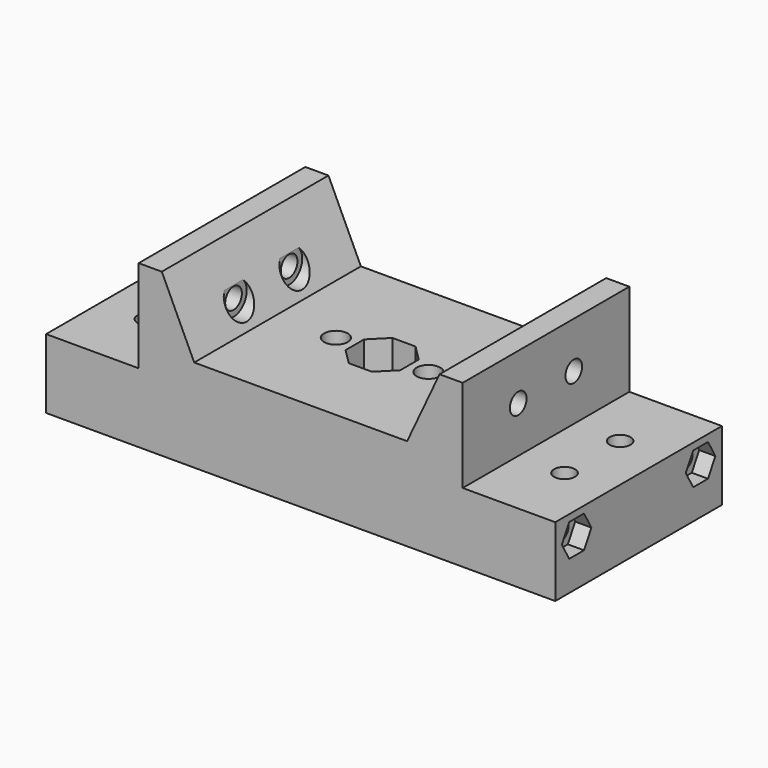
from build123d import *

# Parameters (mm, degrees)
F0_W      = 110
F0_H      = 45
F1_DEPTH  = 15
F2_W      = 12
F2_H      = 45
F3_DEPTH  = 20
F4_R      = 2.25
F5_DEPTH  = 110.001
F6_R      = 2.25
F7_DEPTH  = 15.001
F8_R      = 2.25
F9_DEPTH  = 15.001
F10_R     = 3.55
F11_DEPTH = 3.5
F12_R     = 3.55
F13_DEPTH = 3.5
F3_FACE_W = 46
F3_FACE_H = 45
F14_DEPTH = 5
F16_DEPTH = 45.001
F17_R     = 2.55
F18_DEPTH = 35.001
F20_DEPTH = 3.3
F21_R     = 2.25
F22_DEPTH = 10
F24_DEPTH = 3.5
F25_R     = 2.25
F26_DEPTH = 10
F28_DEPTH = 3.5


with BuildPart() as f1:
    # F0 (on Top) → F1 (new body)
    with BuildSketch(Plane.XY):
        with Locations((55, 22.5)):
            Rectangle(F0_W, F0_H)
    extrude(amount=F1_DEPTH)

    # F2 (on face) → F3 (join)
    with BuildSketch(Plane.XY.offset(15)):
        with Locations((26, 22.5)):
            Rectangle(F2_W, F2_H)
        with Locations((84, 22.5)):
            Rectangle(F2_W, F2_H)
    extrude(amount=F3_DEPTH)

    # F4 (on Right) → F5 (cut, through all)
    with BuildSketch(Plane.YZ):
        with Locations((15, 25)):
            Circle(F4_R)
        with Locations((30, 25)):
            Circle(F4_R)
    extrude(amount=F5_DEPTH, mode=Mode.SUBTRACT)

    # F6 (on face) → F7 (cut, through all)
    with BuildSketch(Plane.XY.offset(15)):
        with Locations((10, 30)):
            Circle(F6_R)
        with Locations((10, 15)):
            Circle(F6_R)
    extrude(amount=-F7_DEPTH, mode=Mode.SUBTRACT)

    # F8 (on face) → F9 (cut, through all)
    with BuildSketch(Plane.XY.offset(15)):
        with Locations((100, 30)):
            Circle(F8_R)
        with Locations((100, 15)):
            Circle(F8_R)
    extrude(amount=-F9_DEPTH, mode=Mode.SUBTRACT)

    # F10 (on face) → F11 (cut)
    with BuildSketch(Plane(origin=(78, 0, 0), x_dir=(0, -1, 0), z_dir=(-1, 0, 0))):
        with Locations((-30, 25)):
            Circle(F10_R)
        with Locations((-15, 25)):
            Circle(F10_R)
    extrude(amount=-F11_DEPTH, mode=Mode.SUBTRACT)

    # F12 (on face) → F13 (cut)
    with BuildSketch(Plane.YZ.offset(32)):
        with Locations((15, 25)):
            Circle(F12_R)
        with Locations((30, 25)):
            Circle(F12_R)
    extrude(amount=-F13_DEPTH, mode=Mode.SUBTRACT)

    # F3_face (on face) → F14 (join)
    with BuildSketch(Plane(origin=(55, 22.5, 15), x_dir=(1, 0, 0), z_dir=(0, 0, 1))):
        Rectangle(F3_FACE_W, F3_FACE_H)
    extrude(amount=F14_DEPTH)

    # F15 (on face) → F16 (cut, through all)
    with BuildSketch(Plane.XZ):
        Polygon((32, 20), (32, 35), (25, 35), align=None)
        Polygon((85, 35), (78, 35), (78, 20), align=None)
    extrude(amount=-F16_DEPTH, mode=Mode.SUBTRACT)

    # F17 (on face) → F18 (cut, through all)
    with BuildSketch(Plane(origin=(0, 0, 0), x_dir=(1, 0, 0), z_dir=(0, 0, -1))):
        Polygon((57.5, -16.1), (55, -16.1), (52.5, -16.1), (49.1, -19.5), (49.1, -22), (49.1, -24.5), (52.5, -27.9), (55, -27.9), (57.5, -27.9), (60.9, -24.5), (60.9, -22), (60.9, -19.5), align=None)
        with Locations((45, -22)):
            Circle(F17_R)
        with Locations((65, -22)):
            Circle(F17_R)
    extrude(amount=-F18_DEPTH, mode=Mode.SUBTRACT)

    # F19 (on face) → F20 (cut)
    with BuildSketch(Plane(origin=(0, 0, 0), x_dir=(1, 0, 0), z_dir=(0, 0, -1))):
        with BuildLine():
            Line((73.45, -11.95), (55, -11.95))
            Line((55, -11.95), (36.55, -11.95))
            ThreePointArc((36.55, -11.95), (35.383274, -12.433274), (34.9, -13.6))
            Line((34.9, -13.6), (34.9, -30.4))
            ThreePointArc((34.9, -30.4), (35.383274, -31.566726), (36.55, -32.05))
            Line((36.55, -32.05), (73.45, -32.05))
            ThreePointArc((73.45, -32.05), (74.616726, -31.566726), (75.1, -30.4))
            Line((75.1, -30.4), (75.1, -13.6))
            ThreePointArc((75.1, -13.6), (74.616726, -12.433274), (73.45, -11.95))
        make_face()
    extrude(amount=-F20_DEPTH, mode=Mode.SUBTRACT)

    # F21 (on face) → F22 (cut)
    with BuildSketch(Plane(origin=(0, 0, 0), x_dir=(0, -1, 0), z_dir=(-1, 0, 0))):
        with Locations((-39.24, 10)):
            Circle(F21_R)
        with Locations((-5.76, 10)):
            Circle(F21_R)
    extrude(amount=-F22_DEPTH, mode=Mode.SUBTRACT)

    # F23 (on face) → F24 (cut)
    with BuildSketch(Plane(origin=(0, 0, 0), x_dir=(0, -1, 0), z_dir=(-1, 0, 0))):
        Polygon((-37.24, 13.5), (-39.24, 13.5), (-41.24, 13.5), (-43.24, 10), (-41.24, 6.5), (-39.24, 6.5), (-37.24, 6.5), (-35.24, 10), align=None)
        Polygon((-3.76, 13.5), (-5.76, 13.5), (-7.76, 13.5), (-9.76, 10), (-7.76, 6.5), (-5.76, 6.5), (-3.76, 6.5), (-1.76, 10), align=None)
    extrude(amount=-F24_DEPTH, mode=Mode.SUBTRACT)

    # F25 (on face) → F26 (cut)
    with BuildSketch(Plane.YZ.offset(110)):
        with Locations((5.76, 10)):
            Circle(F25_R)
        with Locations((39.24, 10)):
            Circle(F25_R)
    extrude(amount=-F26_DEPTH, mode=Mode.SUBTRACT)

    # F27 (on face) + F25 (on face) → F28 (cut)
    with BuildSketch(Plane.YZ.offset(110)):
        Polygon((7.76, 13.5), (5.76, 13.5), (3.76, 13.5), (1.76, 10), (3.76, 6.5), (5.76, 6.5), (7.76, 6.5), (9.76, 10), align=None)
        Polygon((37.24, 6.5), (39.24, 6.5), (41.24, 6.5), (43.24, 10), (41.24, 13.5), (39.24, 13.5), (37.24, 13.5), (35.24, 10), align=None)
    with BuildSketch(Plane.YZ.offset(110)):
        with Locations((5.76, 10)):
            Circle(F25_R)
        with Locations((39.24, 10)):
            Circle(F25_R)
    extrude(amount=-F28_DEPTH, mode=Mode.SUBTRACT)


solid = f1.part
